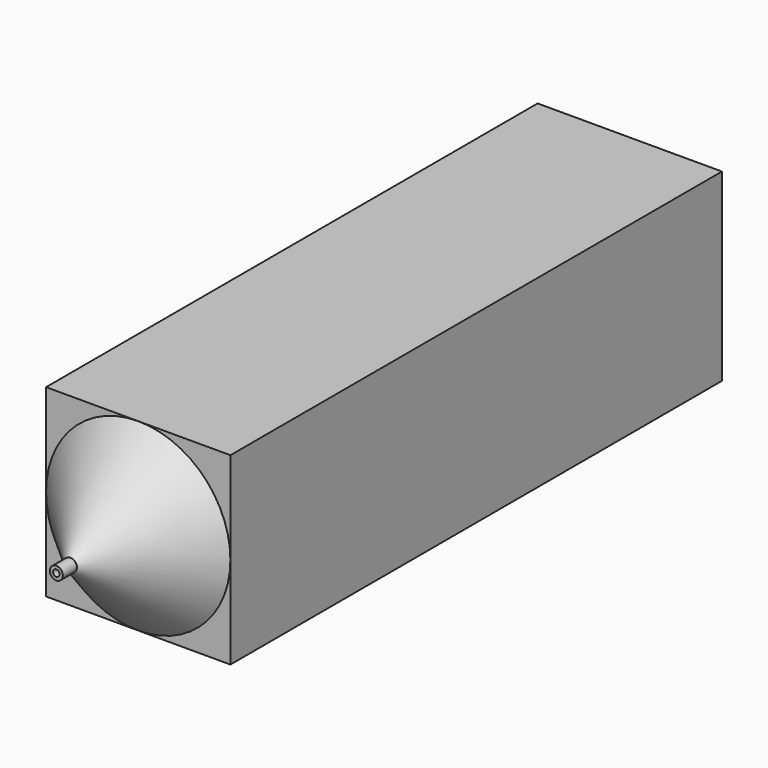
from build123d import *

# Parameters (mm, degrees)
F0_W     = 45
F0_H     = 45
F0_R     = 17.85
F1_DEPTH = 150
F3_R     = 1.5875
F3_R_2   = 0.813681
F4_DEPTH = 4.3


with BuildPart() as f1:
    # F0 (on Front) → F1 (new body)
    with BuildSketch(Plane.XZ):
        Rectangle(F0_W, F0_H)
        Circle(F0_R, mode=Mode.SUBTRACT)
    extrude(amount=-F1_DEPTH)



with BuildPart() as f4:
    # F3 (on offset) → F4 (new body)
    with BuildSketch(Plane.XZ.offset(25)):
        Circle(F3_R)
        Circle(F3_R_2, mode=Mode.SUBTRACT)
    extrude(amount=-F4_DEPTH)


with BuildPart() as f1_1:
    add(f1.part)

    add(f4.part)  # F6 merges F4
    # F5 (on Right) → F6 (revolve)
    with BuildSketch(Plane.YZ):
        Polygon((-20.7, 0.813681), (0, 17.85), (0, 22.5), (-20.7, 1.5875), align=None)
    revolve(axis=Axis((0, 22.813175, 0), (0, 1, 0)))


solid = f1_1.part
